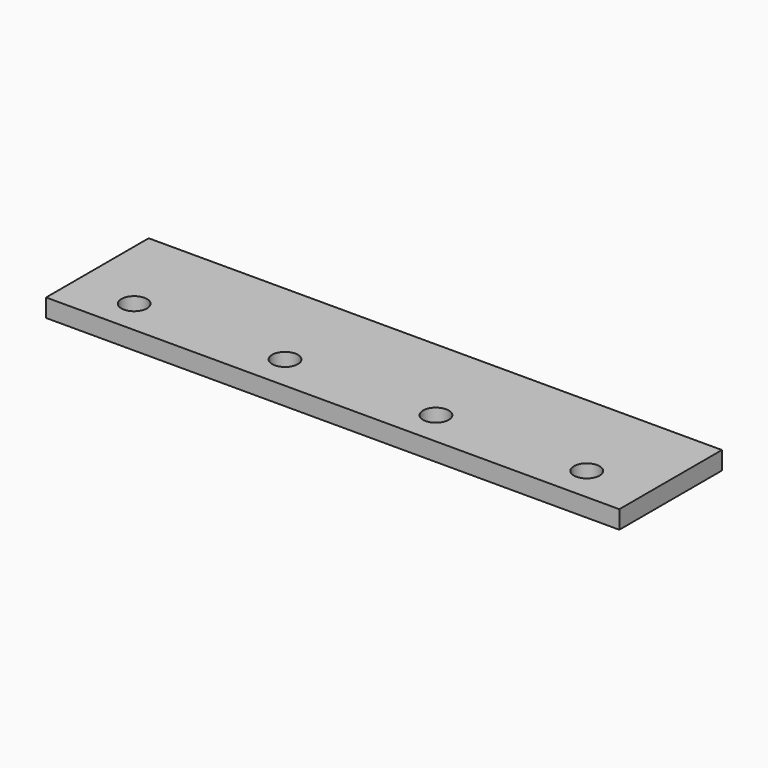
from build123d import *

# Parameters (mm, degrees)
F0_W     = 190
F0_H     = 85
F0_R     = 8.5
F1_DEPTH = 12


with BuildPart() as f1:
    # F0 (on Top) → F1 (new body)
    with BuildSketch(Plane.XY):
        with Locations((95, 42.5)):
            Rectangle(F0_W, F0_H)
        with Locations((40, 23)):
            Circle(F0_R, mode=Mode.SUBTRACT)
        with Locations((140, 23)):
            Circle(F0_R, mode=Mode.SUBTRACT)
        with Locations((285, 42.5)):
            Rectangle(F0_W, F0_H)
        with Locations((240, 23)):
            Circle(F0_R, mode=Mode.SUBTRACT)
        with Locations((340, 23)):
            Circle(F0_R, mode=Mode.SUBTRACT)
    extrude(amount=F1_DEPTH)


solid = f1.part
